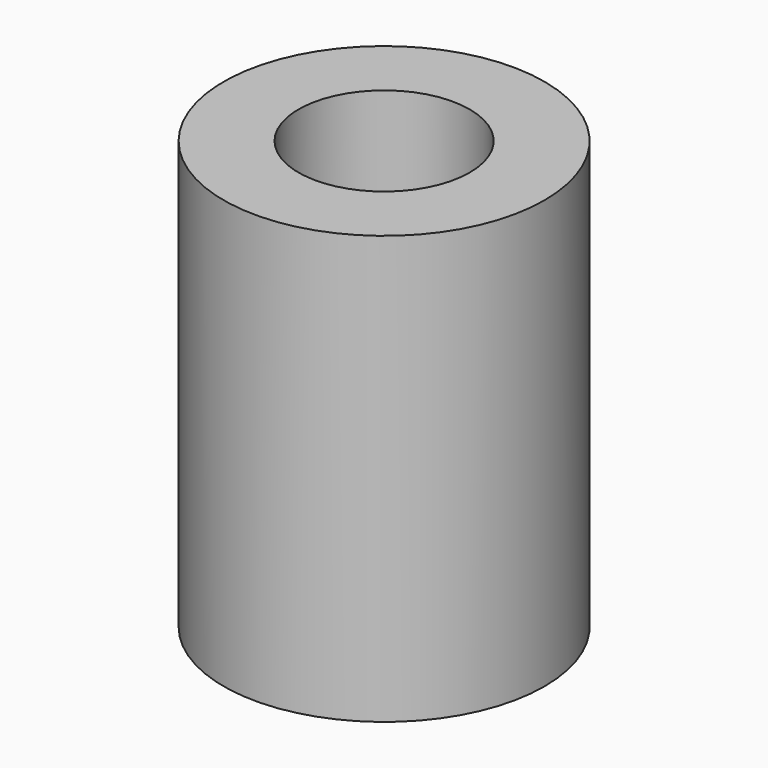
from build123d import *

# Parameters (mm, degrees)
SKETCH_R   = 15
SKETCH_R_2 = 8
PAD_DEPTH  = 40


with BuildPart() as part:
    # Sketch → Pad (new body)
    with BuildSketch(Plane.XY):
        Circle(SKETCH_R)
        Circle(SKETCH_R_2, mode=Mode.SUBTRACT)
    extrude(amount=PAD_DEPTH)


solid = part.part
